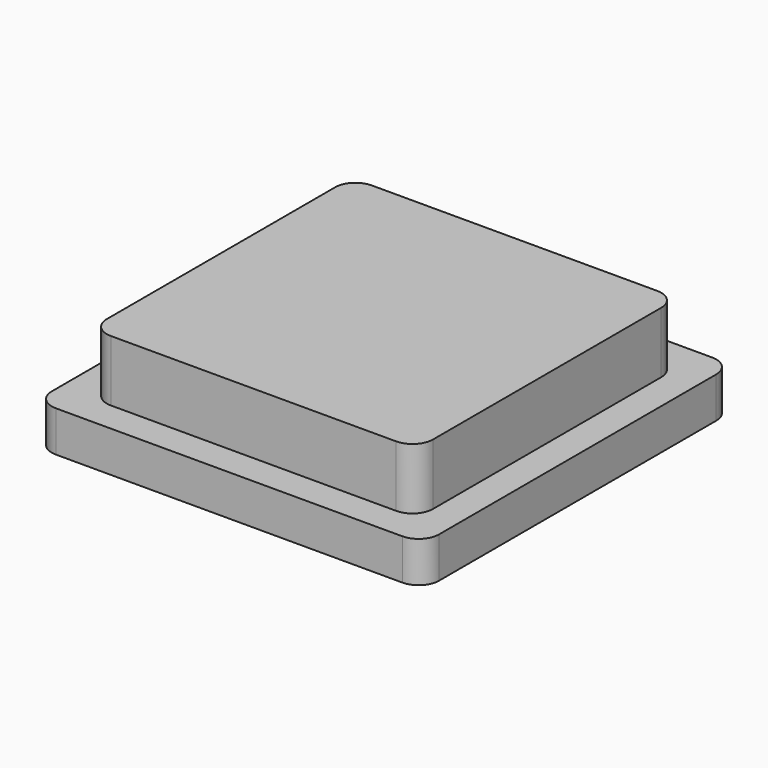
from build123d import *

# Parameters (mm, degrees)
F1_DEPTH = 2.38125
F3_DEPTH = 1.5875


with BuildPart() as f1:
    # F0 (on Top) → F1 (new body)
    with BuildSketch(Plane.XY):
        with BuildLine():
            Line((-5.55625, -6.35), (5.55625, -6.35))
            ThreePointArc((5.55625, -6.35), (6.117516, -6.117516), (6.35, -5.55625))
            Line((6.35, -5.55625), (6.35, 5.55625))
            ThreePointArc((6.35, 5.55625), (6.117516, 6.117516), (5.55625, 6.35))
            Line((5.55625, 6.35), (-5.55625, 6.35))
            ThreePointArc((-5.55625, 6.35), (-6.117516, 6.117516), (-6.35, 5.55625))
            Line((-6.35, 5.55625), (-6.35, -5.55625))
            ThreePointArc((-6.35, -5.55625), (-6.117516, -6.117516), (-5.55625, -6.35))
        make_face()
    extrude(amount=F1_DEPTH)

    # F2 (on face) → F3 (join)
    with BuildSketch(Plane(origin=(0, 0, 0), x_dir=(1, 0, 0), z_dir=(0, 0, -1))):
        with BuildLine():
            Line((6.746875, 7.540625), (-6.746875, 7.540625))
            ThreePointArc((-6.746875, 7.540625), (-7.308141, 7.308141), (-7.540625, 6.746875))
            Line((-7.540625, 6.746875), (-7.540625, -6.746875))
            ThreePointArc((-7.540625, -6.746875), (-7.308141, -7.308141), (-6.746875, -7.540625))
            Line((-6.746875, -7.540625), (6.746875, -7.540625))
            ThreePointArc((6.746875, -7.540625), (7.308141, -7.308141), (7.540625, -6.746875))
            Line((7.540625, -6.746875), (7.540625, 6.746875))
            ThreePointArc((7.540625, 6.746875), (7.308141, 7.308141), (6.746875, 7.540625))
        make_face()
        with BuildLine():
            Line((-5.55625, 6.35), (5.55625, 6.35))
            ThreePointArc((5.55625, 6.35), (6.117516, 6.117516), (6.35, 5.55625))
            Line((6.35, 5.55625), (6.35, -5.55625))
            ThreePointArc((6.35, -5.55625), (6.117516, -6.117516), (5.55625, -6.35))
            Line((5.55625, -6.35), (-5.55625, -6.35))
            ThreePointArc((-5.55625, -6.35), (-6.117516, -6.117516), (-6.35, -5.55625))
            Line((-6.35, -5.55625), (-6.35, 5.55625))
            ThreePointArc((-6.35, 5.55625), (-6.117516, 6.117516), (-5.55625, 6.35))
        make_face(mode=Mode.SUBTRACT)
        with BuildLine():
            ThreePointArc((6.35, 5.55625), (6.117516, 6.117516), (5.55625, 6.35))
            Line((5.55625, 6.35), (-5.55625, 6.35))
            ThreePointArc((-5.55625, 6.35), (-6.117516, 6.117516), (-6.35, 5.55625))
            Line((-6.35, 5.55625), (-6.35, -5.55625))
            ThreePointArc((-6.35, -5.55625), (-6.117516, -6.117516), (-5.55625, -6.35))
            Line((-5.55625, -6.35), (5.55625, -6.35))
            ThreePointArc((5.55625, -6.35), (6.117516, -6.117516), (6.35, -5.55625))
            Line((6.35, -5.55625), (6.35, 5.55625))
        make_face()
    extrude(amount=F3_DEPTH)


solid = f1.part
